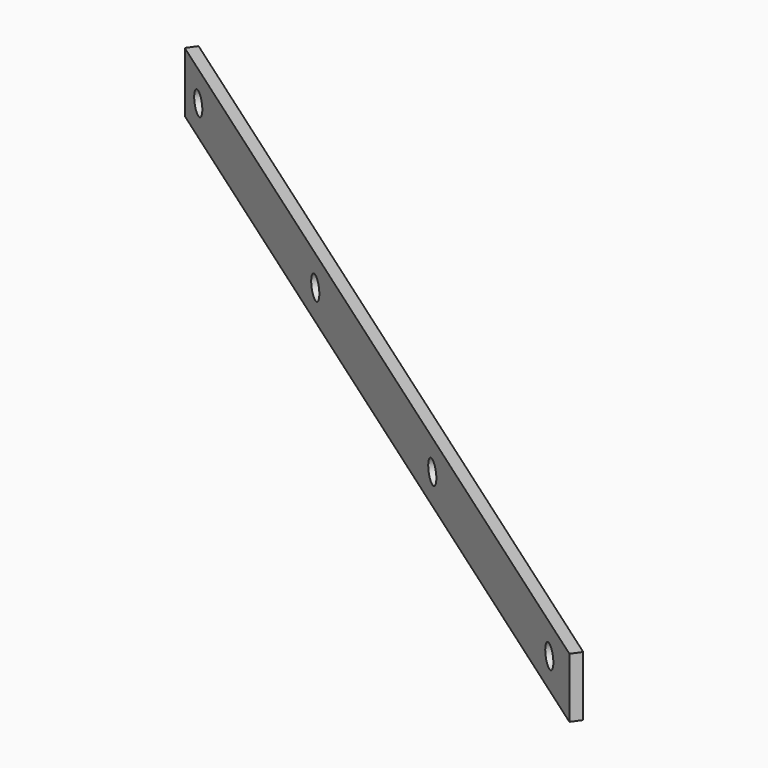
from build123d import *

# Parameters (mm, degrees)
PAD006_DEPTH           = 32
SKETCH014_R            = 6
POCKET004_DEPTH        = 273.736822
LINEARPATTERN002_COUNT = 4
LINEARPATTERN002_PITCH = 173.333333


with BuildPart() as part:
    # Sketch013 → Pad006 (new body)
    with BuildSketch(Plane.XY):
        Polygon((-456.521681, 341.5), (10.26148, 14.654912), (6.820021, 9.74), (-459.963139, 336.585088), align=None)
    extrude(amount=PAD006_DEPTH)

    # Sketch014 (on Face3 of Pad006) → Pocket004 (cut, through all)
    with BuildSketch(Plane(origin=(6.820021, 9.74, 0), x_dir=(0.819152, -0.573576, 0), z_dir=(-0.573576, -0.819152, 0))):
        with Locations((-549.837021, 16)):
            Circle(SKETCH014_R)
    pocket004 = extrude(amount=-POCKET004_DEPTH, mode=Mode.SUBTRACT)

    # LinearPattern002: Pocket004 ×4
    with Locations(*[Vector(0.819152, -0.573576, 0) * (i * LINEARPATTERN002_PITCH) for i in range(1, LINEARPATTERN002_COUNT)]):
        add(pocket004, mode=Mode.SUBTRACT)


with BuildPart() as part_1:
    # Body005 placement: moved
    add(part.part.moved(Location((0, 0, 9))))


solid = part_1.part
